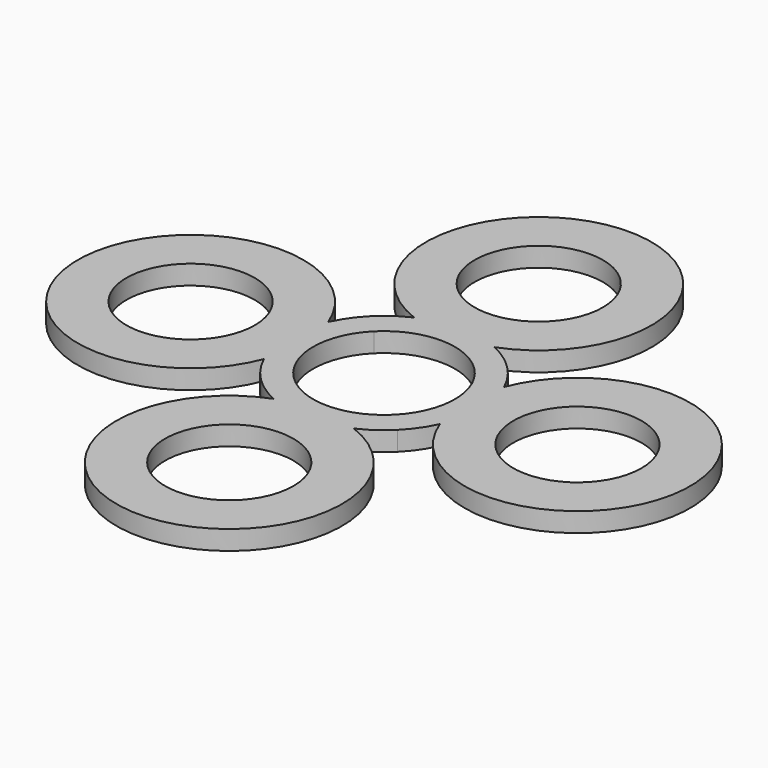
from build123d import *

# Parameters (mm, degrees)
F0_R     = 9.95
F1_DEPTH = 3


with BuildPart() as f1:
    # F0 (on Top) → F1 (new body)
    with BuildSketch(Plane.XY):
        with BuildLine():
            ThreePointArc((6.228261, 13.645833), (0, 47.5), (-6.228261, 13.645833))
            ThreePointArc((-6.228261, 13.645833), (-8.553501, 12.322241), (-10.606602, 10.606602))
            ThreePointArc((-10.606602, 10.606602), (-12.322241, 8.553501), (-13.645833, 6.228261))
            ThreePointArc((-13.645833, 6.228261), (-47.5, 0), (-13.645833, -6.228261))
            ThreePointArc((-13.645833, -6.228261), (-12.322241, -8.553501), (-10.606602, -10.606602))
            ThreePointArc((-10.606602, -10.606602), (-8.553501, -12.322241), (-6.228261, -13.645833))
            ThreePointArc((-6.228261, -13.645833), (0, -47.5), (6.228261, -13.645833))
            ThreePointArc((6.228261, -13.645833), (8.553501, -12.322241), (10.606602, -10.606602))
            ThreePointArc((10.606602, -10.606602), (12.322241, -8.553501), (13.645833, -6.228261))
            ThreePointArc((13.645833, -6.228261), (47.5, 0), (13.645833, 6.228261))
            ThreePointArc((13.645833, 6.228261), (12.322241, 8.553501), (10.606602, 10.606602))
            ThreePointArc((10.606602, 10.606602), (8.553501, 12.322241), (6.228261, 13.645833))
        make_face()
        with Locations((0, -30)):
            Circle(F0_R, mode=Mode.SUBTRACT)
        with Locations((-30, 0)):
            Circle(F0_R, mode=Mode.SUBTRACT)
        with BuildLine():
            ThreePointArc((-7.778175, 7.778175), (0, 11), (7.778175, 7.778175))
            ThreePointArc((7.778175, 7.778175), (11, 0), (7.778175, -7.778175))
            ThreePointArc((7.778175, -7.778175), (0, -11), (-7.778175, -7.778175))
            ThreePointArc((-7.778175, -7.778175), (-11, 0), (-7.778175, 7.778175))
        make_face(mode=Mode.SUBTRACT)
        with Locations((30, 0)):
            Circle(F0_R, mode=Mode.SUBTRACT)
        with Locations((0, 30)):
            Circle(F0_R, mode=Mode.SUBTRACT)
    extrude(amount=F1_DEPTH)


solid = f1.part
